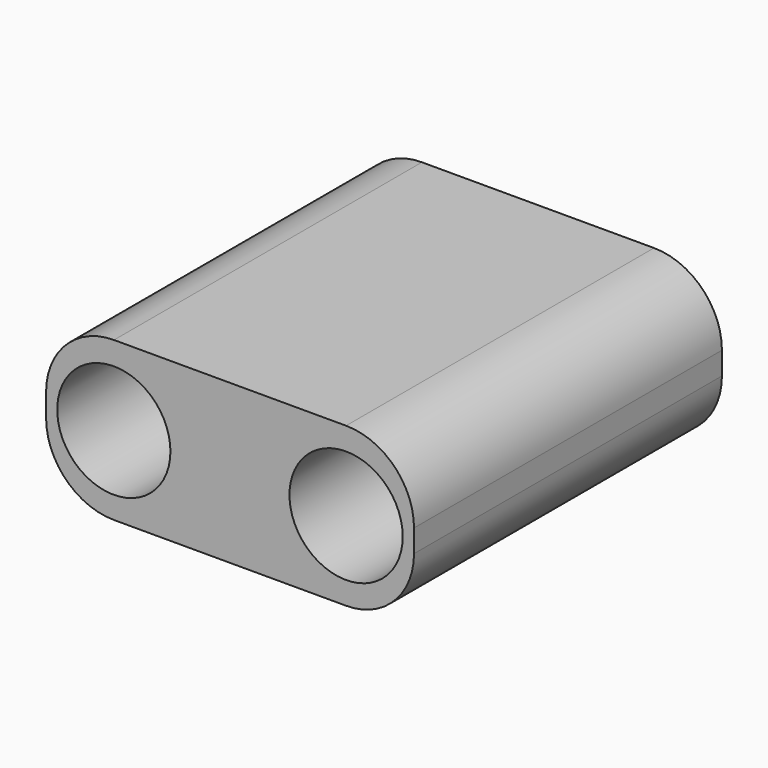
from build123d import *

# Parameters (mm, degrees)
F0_R     = 9.999812
F0_R_2   = 10.004781
F1_DEPTH = 68


with BuildPart() as f1:
    # F0 (on Front) → F1 (new body)
    with BuildSketch(Plane.XZ):
        with BuildLine():
            ThreePointArc((0, 12), (3.514719, 3.514719), (12, 0))
            Line((12, 0), (53, 0))
            ThreePointArc((53, 0), (61.485281, 3.514719), (65, 12))
            Line((65, 12), (65, 16))
            ThreePointArc((65, 16), (61.485281, 24.485281), (53, 28))
            Line((53, 28), (12, 28))
            ThreePointArc((12, 28), (3.514719, 24.485281), (0, 16))
            Line((0, 16), (0, 12))
        make_face()
        with Locations((11.96917, 13.904675)):
            Circle(F0_R, mode=Mode.SUBTRACT)
        with Locations((53, 14)):
            Circle(F0_R_2, mode=Mode.SUBTRACT)
    extrude(amount=F1_DEPTH)


solid = f1.part
